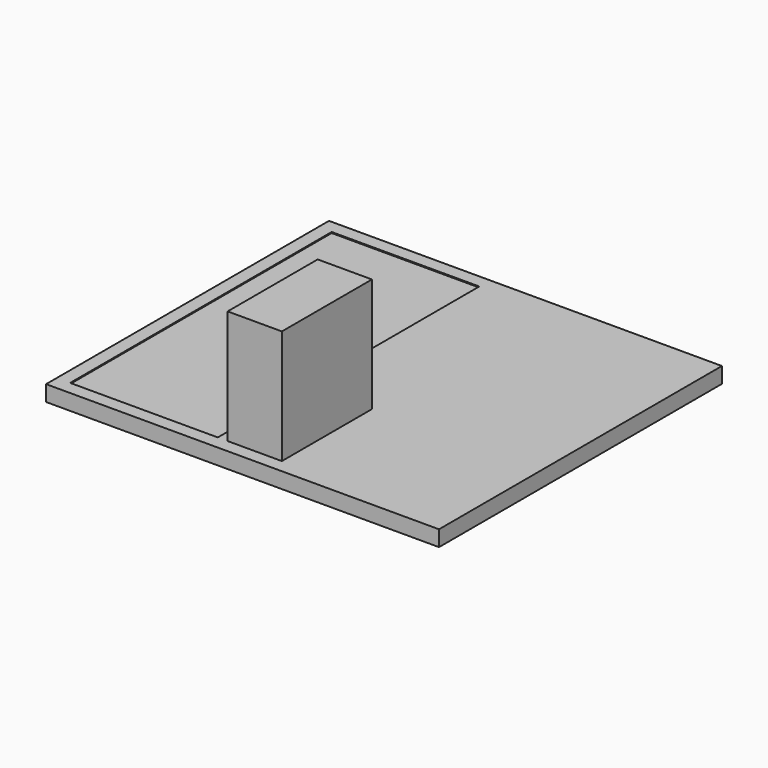
from build123d import *

# Parameters (mm, degrees)
F0_W     = 17.5006
F0_H     = 36.322
F1_DEPTH = 41.91
F0_W_2   = 126.77623
F0_H_2   = 114.098606
F0_W_3   = 47.62524
F0_H_3   = 105.462606
F2_DEPTH = 5.08
F0_W_4   = 41.27524
F0_H_4   = 99.112606
F3_DEPTH = 41.911
F4_DEPTH = 4.7625


with BuildPart() as f1:
    # F0 (on Top) → F1 (new body)
    with BuildSketch(Plane.XY):
        with Locations((0.480425, -34.570303)):
            Rectangle(F0_W, F0_H)
    extrude(amount=F1_DEPTH)

    # F0 (on Top) → F2 (join)
    with BuildSketch(Plane.XY):
        Rectangle(F0_W_2, F0_H_2)
        with Locations((0.480425, -34.570303)):
            Rectangle(F0_W, F0_H, mode=Mode.SUBTRACT)
        with Locations((-35.257495, 0)):
            Rectangle(F0_W_3, F0_H_3, mode=Mode.SUBTRACT)
    extrude(amount=F2_DEPTH)

    # F0 (on Top) → F3 (cut, through all)
    with BuildSketch(Plane.XY):
        with Locations((-35.257495, 0)):
            Rectangle(F0_W_4, F0_H_4)
    extrude(amount=F3_DEPTH, mode=Mode.SUBTRACT)


with BuildPart() as f4:
    # F0 (on Top) → F4 (new body)
    with BuildSketch(Plane.XY):
        with Locations((-35.257495, 0)):
            Rectangle(F0_W_3, F0_H_3)
        with Locations((-35.257495, 0)):
            Rectangle(F0_W_4, F0_H_4, mode=Mode.SUBTRACT)
        with Locations((-35.257495, 0)):
            Rectangle(F0_W_4, F0_H_4)
    extrude(amount=F4_DEPTH)


solid = Compound([f1.part, f4.part])
